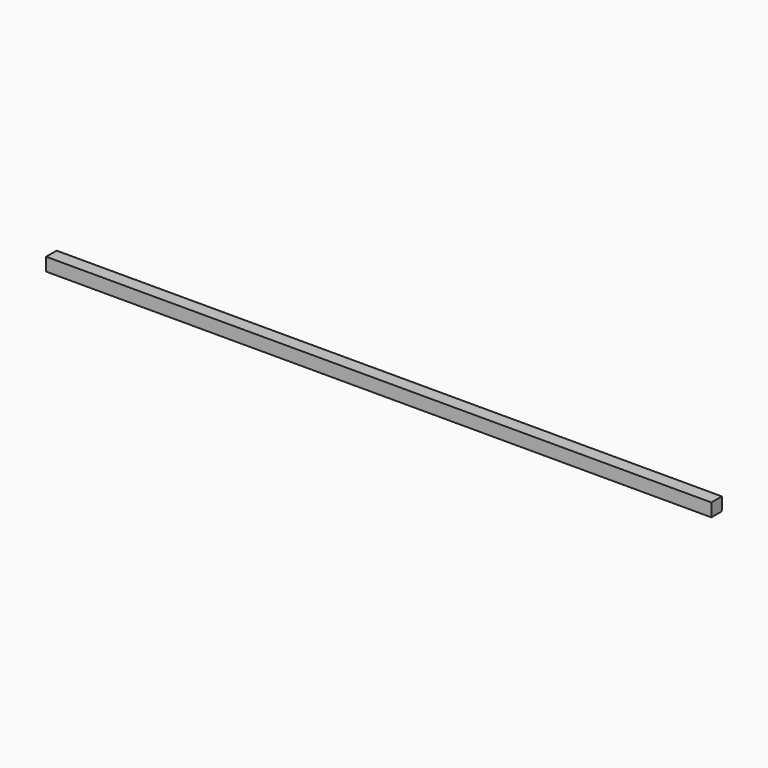
from build123d import *

# Parameters (mm, degrees)
F0_W     = 38.1
F0_H     = 38.1
F1_DEPTH = 1930.4
F2_R     = 5.08


with BuildPart() as f1:
    # F0 (on Right) → F1 (new body)
    with BuildSketch(Plane.YZ):
        with Locations((-45.904178, 17.134688)):
            Rectangle(F0_W, F0_H)
    extrude(amount=F1_DEPTH)

    # F2
    f2_edges = [f1.edges().sort_by_distance(p)[0] for p in [
        (965.2, -26.854178, -1.915312),
    ]]
    fillet(f2_edges, radius=F2_R)


solid = f1.part
